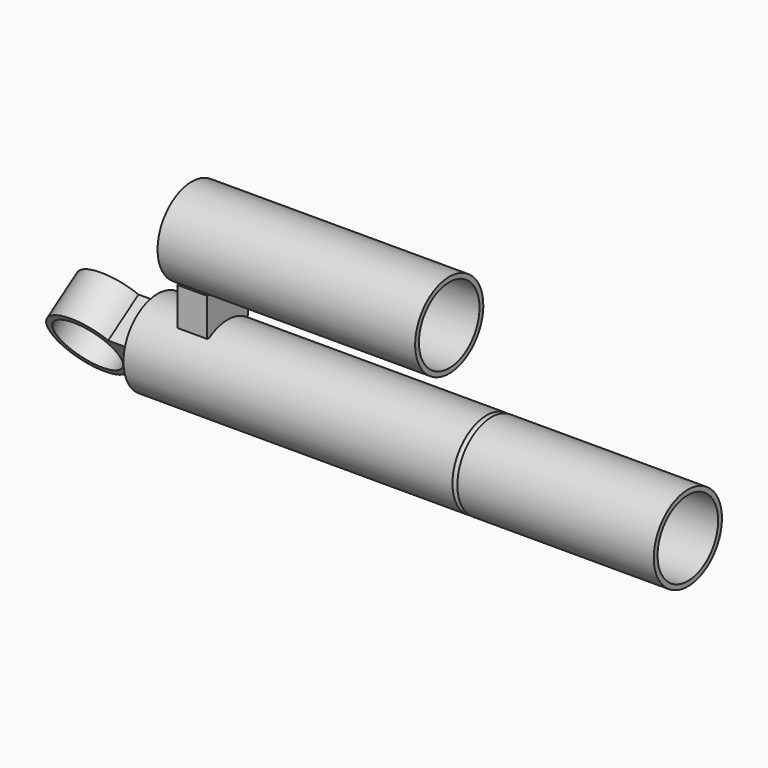
from build123d import *

# Parameters (mm, degrees)
F4_W      = 15.8
F4_H      = 20
F5_DEPTH  = 13.5
F7_DEPTH  = 20.1
F8_R      = 17.1
F9_DEPTH  = 25
F11_DEPTH = 24


with BuildPart() as f1:
    # F0 (on Front) → F1 (revolve)
    with BuildSketch(Plane.XZ):
        with BuildLine():
            Line((28.9, 20.0906451762), (308.9, 20))
            Line((308.9, 20), (308.9, 22.5))
            Line((308.9, 22.5), (205.2, 22.5))
            ThreePointArc((205.2, 22.5), (203.9, 21.2), (202.6, 22.5))
            Line((202.6, 22.5), (28.9, 22.5))
            Line((28.9, 22.5), (28.9, 20.0906451762))
        make_face()
        with BuildLine():
            ThreePointArc((26.400000374, 0), (27.0246011146, 10.1231447503), (28.9, 20.0906451762))
            Line((28.9, 20.0906451762), (28.9, 22.5))
            ThreePointArc((28.9, 22.5), (25.1650624277, 11.5244305716), (23.9, 0))
            Line((23.9, 0), (26.400000374, 0))
        make_face()
    revolve(axis=Axis((168.9, 0, 0), (1, 0, 0)))



with BuildPart() as f3:
    # F2 (on Front) → F3 (revolve)
    with BuildSketch(Plane.XZ):
        Polygon((49.4, 78), (182.9, 78), (182.9, 80.5), (46.9, 80.5), (46.9, 58), (49.4, 58), align=None)
    revolve(axis=Axis((114.9, 0, 58), (1, 0, 0)))


with BuildPart() as f1_1:
    add(f1.part)

    add(f3.part)  # F5 merges F3
    # F4 (on Front) → F5 (join, symmetric)
    with BuildSketch(Plane.XZ):
        with Locations((58, 29)):
            Rectangle(F4_W, F4_H)
    extrude(amount=F5_DEPTH, both=True)



with BuildPart() as f7:
    # F6 (on Right) → F7 (new body, symmetric)
    with BuildSketch(Plane.YZ):
        Polygon((-1.1106930477, 23.3832495807), (-21.1106930477, 10.1167504193), (1.1106930477, -23.3832495807), (21.1106930477, -10.1167504193), align=None)
    extrude(amount=F7_DEPTH, both=True)

    # F8 (on face) → F9 (cut)
    with BuildSketch(Plane(origin=(0, 10, 6.6332495807), x_dir=(-1, 0, 0), z_dir=(0, 0.8333333333, 0.5527707984))):
        with BuildLine():
            Line((-20.1, -20.1), (4.99e-08, -20.1))
            ThreePointArc((4.99e-08, -20.1), (-14.2128462562, -14.2128463475), (-20.1, -7.91e-08))
            Line((-20.1, -7.91e-08), (-20.1, -20.1))
        make_face()
        with BuildLine():
            Line((20.1, -20.1), (20.1, 0))
            ThreePointArc((20.1, 0), (14.2128463195, -14.2128462842), (4.99e-08, -20.1))
            Line((4.99e-08, -20.1), (20.1, -20.1))
        make_face()
        with BuildLine():
            ThreePointArc((-1.76e-08, 20.1), (14.2128462956, 14.2128463081), (20.1, 0))
            Line((20.1, 0), (20.1, 20.1))
            Line((20.1, 20.1), (-1.76e-08, 20.1))
        make_face()
        with BuildLine():
            ThreePointArc((-20.1, -7.91e-08), (-14.212846336, 14.2128462677), (-1.76e-08, 20.1))
            Line((-1.76e-08, 20.1), (-20.1, 20.1))
            Line((-20.1, 20.1), (-20.1, -7.91e-08))
        make_face()
        Circle(F8_R)
    extrude(amount=-F9_DEPTH, mode=Mode.SUBTRACT)


with BuildPart() as f1_2:
    add(f1_1.part)

    add(f7.part)  # F11 merges F7
    # F10 (on face) → F11 (join)
    with BuildSketch(Plane(origin=(0, 10, 6.6332495807), x_dir=(-1, 0, 0), z_dir=(0, 0.8333333333, 0.5527707984))):
        with BuildLine():
            ThreePointArc((-16.1248255805, -12), (-20.1, 0), (-16.1248255805, 12))
            Line((-16.1248255805, 12), (-28.1248255805, 12))
            Line((-28.1248255805, 12), (-28.1248255805, -12))
            Line((-28.1248255805, -12), (-16.1248255805, -12))
        make_face()
    extrude(amount=-F11_DEPTH)


solid = f1_2.part
